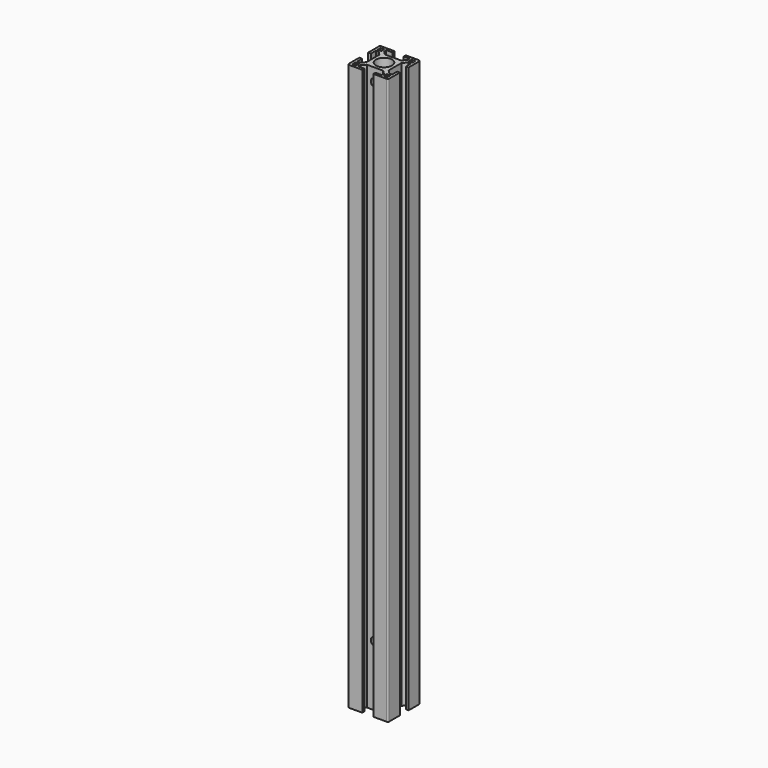
from build123d import *

# Parameters (mm, degrees)
SKETCH006_R     = 6
SKETCH006_W     = 2.75
SKETCH006_H     = 2.75
PAD_DEPTH       = 420
SKETCH_R        = 3.175
POCKET_DEPTH    = 23.250999
SKETCH007_R     = 3.175
POCKET001_DEPTH = 23.251


with BuildPart() as part:
    # Sketch006 → Pad (new body)
    with BuildSketch(Plane.XY):
        with BuildLine():
            Line((4.1, -15), (14, -15))
            ThreePointArc((14, -15), (14.707107, -14.707107), (15, -14))
            Line((15, -14), (15, -4.1))
            Line((15, -4.1), (13, -4.1))
            Line((13, -4.1), (13, -8.75))
            Line((13, -8.75), (11, -8.75))
            Line((11, -8.75), (8.249999, -6))
            Line((8.249999, -6), (8.249999, 6))
            Line((8.249999, 6), (11, 8.75))
            Line((11, 8.75), (13, 8.75))
            Line((13, 8.75), (13, 4.1))
            Line((13, 4.1), (15, 4.1))
            Line((15, 4.1), (15, 14))
            ThreePointArc((15, 14), (14.707107, 14.707107), (14.000001, 15))
            Line((14.000001, 15), (4.1, 15))
            Line((4.1, 15), (4.1, 13))
            Line((4.1, 13), (8.75, 13))
            Line((8.75, 13), (8.75, 11))
            Line((8.75, 11), (6, 8.25))
            Line((6, 8.25), (-6, 8.25))
            Line((-6, 8.25), (-8.75, 11))
            Line((-8.75, 11), (-8.75, 13))
            Line((-8.75, 13), (-4.1, 13))
            Line((-4.1, 13), (-4.1, 15))
            Line((-4.1, 15), (-14, 15))
            ThreePointArc((-14, 15), (-14.707107, 14.707107), (-15, 14))
            Line((-15, 14), (-15, 4.1))
            Line((-15, 4.1), (-13, 4.1))
            Line((-13, 4.1), (-13, 8.75))
            Line((-13, 8.75), (-11, 8.75))
            Line((-11, 8.75), (-8.25, 6))
            Line((-8.25, 6), (-8.25, -6))
            Line((-8.25, -6), (-11, -8.75))
            Line((-11, -8.75), (-13, -8.75))
            Line((-13, -8.75), (-13, -4.1))
            Line((-13, -4.1), (-15, -4.1))
            Line((-15, -4.1), (-15, -14))
            ThreePointArc((-15, -14), (-14.707107, -14.707107), (-14.000001, -15))
            Line((-14.000001, -15), (-4.1, -15))
            Line((-4.1, -15), (-4.1, -13))
            Line((-4.1, -13), (-8.75, -13))
            Line((-8.75, -13), (-8.75, -11))
            Line((-8.75, -11), (-6, -8.249999))
            Line((-6, -8.249999), (6, -8.249999))
            Line((6, -8.249999), (8.75, -11))
            Line((8.75, -11), (8.75, -13))
            Line((8.75, -13), (4.1, -13))
            Line((4.1, -13), (4.1, -15))
        make_face()
        Circle(SKETCH006_R, mode=Mode.SUBTRACT)
        with Locations((-11.625, -11.625)):
            Rectangle(SKETCH006_W, SKETCH006_H, mode=Mode.SUBTRACT)
        with Locations((11.625, -11.625)):
            Rectangle(SKETCH006_W, SKETCH006_H, mode=Mode.SUBTRACT)
        with Locations((11.625, 11.625)):
            Rectangle(SKETCH006_W, SKETCH006_H, mode=Mode.SUBTRACT)
        with Locations((-11.625, 11.625)):
            Rectangle(SKETCH006_W, SKETCH006_H, mode=Mode.SUBTRACT)
    extrude(amount=PAD_DEPTH)

    # Sketch (on Face44 of Pad) → Pocket (cut, through all)
    with BuildSketch(Plane.XZ.offset(8.249999)):
        with Locations((0, 45)):
            Circle(SKETCH_R)
        with Locations((0, 410)):
            Circle(SKETCH_R)
    extrude(amount=-POCKET_DEPTH, mode=Mode.SUBTRACT)

    # Sketch007 (on Face36 of Pocket) → Pocket001 (cut, through all)
    with BuildSketch(Plane(origin=(-8.25, 0, 0), x_dir=(0, -1, 0), z_dir=(-1, 0, 0))):
        with Locations((0, 45)):
            Circle(SKETCH007_R)
        with Locations((0, 410)):
            Circle(SKETCH007_R)
    extrude(amount=-POCKET001_DEPTH, mode=Mode.SUBTRACT)


solid = part.part
